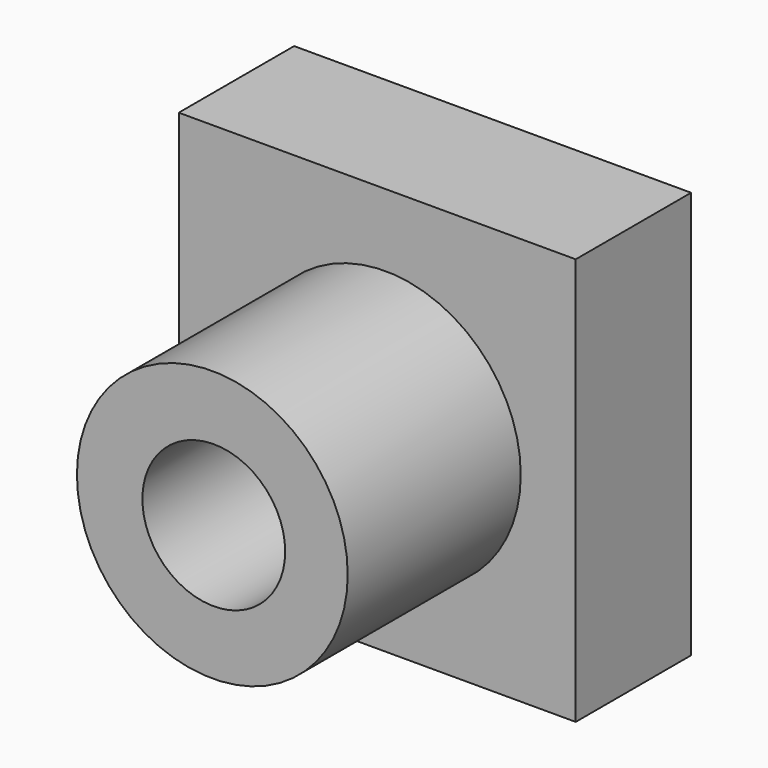
from build123d import *

# Parameters (mm, degrees)
F0_W     = 69.926764816
F0_H     = 71.7419460416
F1_DEPTH = 25.4
F3_R     = 23.8517275111
F4_DEPTH = 38.1
F5_R     = 12.5762061787
F6_DEPTH = 63.501


with BuildPart() as f1:
    # F0 (on Front) → F1 (new body)
    with BuildSketch(Plane.XZ):
        with Locations((3.1551141292, 0.7052309811)):
            Rectangle(F0_W, F0_H)
    extrude(amount=F1_DEPTH)

    # F3 (on face) → F4 (join)
    with BuildSketch(Plane.XZ.offset(25.4)):
        with Locations((4.5831017196, 0)):
            Circle(F3_R)
    extrude(amount=F4_DEPTH)

    # F5 (on face) → F6 (cut, through all)
    with BuildSketch(Plane.XZ.offset(63.5)):
        with Locations((4.8407912254, 0)):
            Circle(F5_R)
    extrude(amount=-F6_DEPTH, mode=Mode.SUBTRACT)


solid = f1.part
